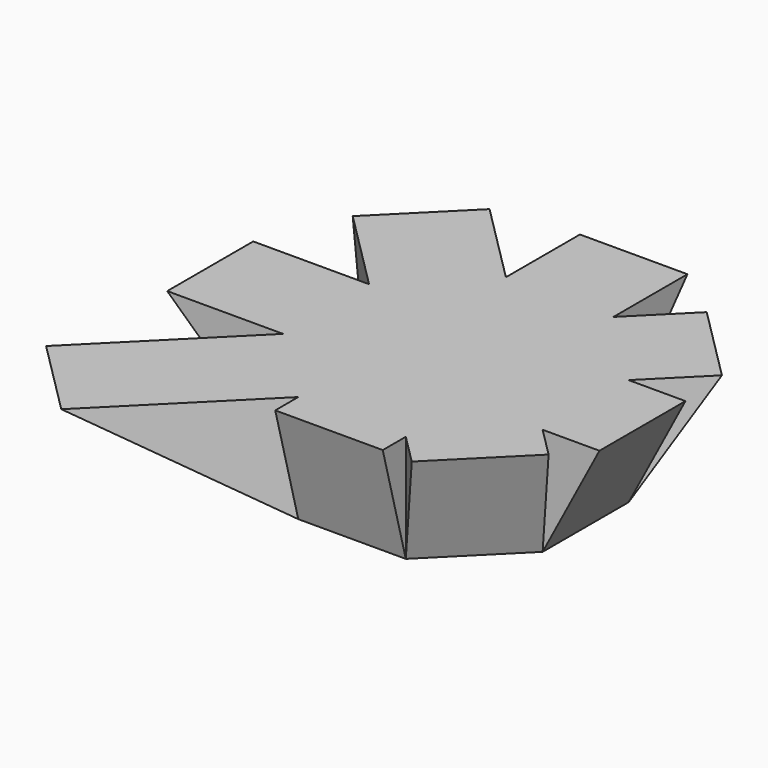
from build123d import *

# Parameters (mm, degrees)
F1_DEPTH  = 12.7
F5_DEPTH  = 6.35
F7_DEPTH  = 6.35
F9_DEPTH  = 6.35
F11_DEPTH = 6.35
F13_DEPTH = 6.35
F15_DEPTH = 6.35
F17_DEPTH = 6.35
F19_DEPTH = 6.35


with BuildPart() as f1:
    # F0 (on Top) → F1 (new body)
    with BuildSketch(Plane.XY):
        Polygon((6.35, -15.3302561211), (15.3302561211, -6.35), (15.3302561211, 6.35), (6.35, 15.3302561211), (-6.35, 15.3302561211), (-15.3302561211, 6.35), (-15.3302561211, -6.35), (-6.35, -15.3302561211), align=None)
    extrude(amount=-F1_DEPTH)

    # F4 (on Right) → F5 (join, symmetric)
    with BuildSketch(Plane.YZ):
        Polygon((-15.3302561211, -12.7), (-15.3302561211, 0), (-18.7332108649, 0), align=None)
    extrude(amount=F5_DEPTH, both=True)

    # F6 (on mid) → F7 (join, symmetric)
    with BuildSketch(Plane(origin=(0, 0, 0), x_dir=(0.7071067812, -0.7071067812, 0), z_dir=(-0.7071067812, -0.7071067812, 0))):
        Polygon((20.314638822, 0), (15.3302561211, 0), (15.3302561211, -12.7), align=None)
    extrude(amount=F7_DEPTH, both=True)

    # F8 (on Front) → F9 (join, symmetric)
    with BuildSketch(Plane.XZ):
        Polygon((22.0424020951, 0), (15.3302561211, 0), (15.3302561211, -12.7), align=None)
    extrude(amount=F9_DEPTH, both=True)

    # F10 (on mid) → F11 (join, symmetric)
    with BuildSketch(Plane(origin=(0, 0, 0), x_dir=(0.7071067812, 0.7071067812, 0), z_dir=(0.7071067812, -0.7071067812, 0))):
        Polygon((23.9889695097, 0), (15.3302561211, 0), (15.3302561211, -12.7), align=None)
    extrude(amount=F11_DEPTH, both=True)

    # F12 (on Right) → F13 (join, symmetric)
    with BuildSketch(Plane.YZ):
        Polygon((26.2594898514, 0), (15.3302561211, 0), (15.3302561211, -12.7), align=None)
    extrude(amount=F13_DEPTH, both=True)

    # F14 (on mid) → F15 (join, symmetric)
    with BuildSketch(Plane(origin=(0, 0, 0), x_dir=(0.7071067812, -0.7071067812, 0), z_dir=(-0.7071067812, -0.7071067812, 0))):
        Polygon((-15.3302561211, -12.7), (-15.3302561211, 0), (-29.0176009017, 0), align=None)
    extrude(amount=F15_DEPTH, both=True)

    # F16 (on Front) → F17 (join, symmetric)
    with BuildSketch(Plane.XZ):
        Polygon((-15.3302561211, -12.7), (-15.3302561211, 0), (-29.0176009017, 0), align=None)
    extrude(amount=F17_DEPTH, both=True)

    # F18 (on mid) → F19 (join, symmetric)
    with BuildSketch(Plane(origin=(0, 0, 0), x_dir=(0.7071067812, 0.7071067812, 0), z_dir=(0.7071067812, -0.7071067812, 0))):
        Polygon((-15.3302561211, -12.7), (-15.3302561211, 0), (-37.3273013772, 0), align=None)
    extrude(amount=F19_DEPTH, both=True)


solid = f1.part
